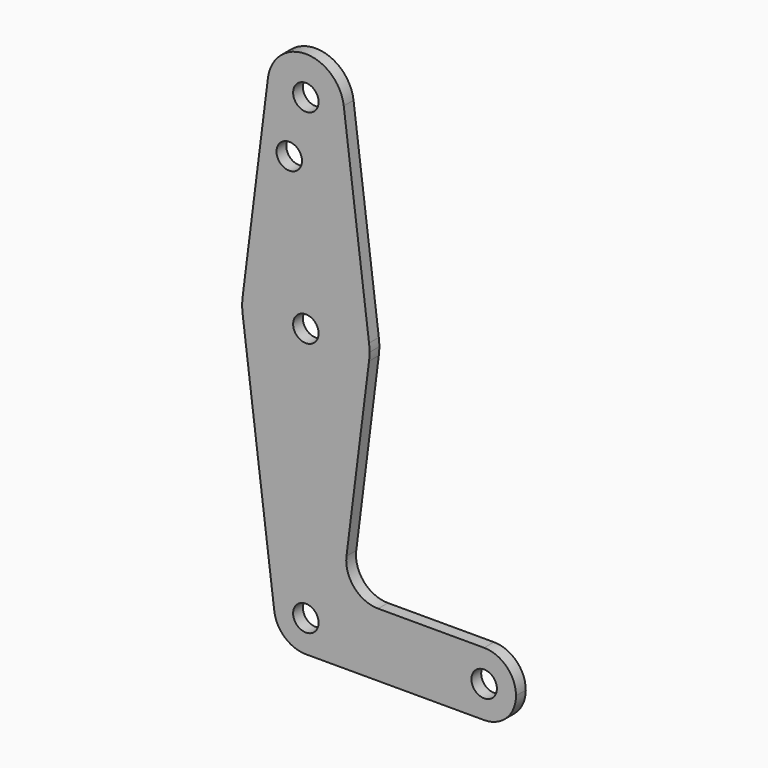
from build123d import *

# Parameters (mm, degrees)
F0_R     = 3.175
F1_DEPTH = 3.048


with BuildPart() as f1:
    # F0 (on Front) → F1 (new body)
    with BuildSketch(Plane.XZ):
        with BuildLine():
            ThreePointArc((-23.5077682883, -57.6858783245), (-17.8951082126, -55.3610384002), (-15.5702682883, -49.7483783245))
            ThreePointArc((-15.5702682883, -49.7483783245), (-24.0048376566, -41.8264575793), (-31.3830124251, -50.7405658245))
            ThreePointArc((-31.3830124251, -50.7405658245), (-28.7579310461, -55.7015033245), (-23.5077682883, -57.6858783245))
        make_face()
        with Locations((-23.5077682883, -49.7483783245)):
            Circle(F0_R, mode=Mode.SUBTRACT)
        with BuildLine():
            ThreePointArc((-31.3830124251, -50.7405658245), (-24.0048376566, -41.8264575793), (-15.5702682883, -49.7483783245))
            Line((-15.5702682883, -49.7483783245), (13.0047317117, -49.7483783245))
            ThreePointArc((13.0047317117, -49.7483783245), (15.3295716361, -44.1357182488), (20.9422317117, -41.8108783245))
            Line((20.9422317117, -41.8108783245), (-5.4928098148, -41.8108783245))
            ThreePointArc((-5.4928098148, -41.8108783245), (-11.4554598148, -39.1192413428), (-13.3806543422, -32.8669033245))
            Line((-13.3806543422, -32.8669033245), (-7.7572800146, 11.7672466755))
            ThreePointArc((-7.7572800146, 11.7672466755), (-23.5077682883, -2.1233783245), (-39.2582565619, 11.7672466755))
            Line((-39.2582565619, 11.7672466755), (-31.3830124251, -50.7405658245))
        make_face()
        with BuildLine():
            Line((13.0047317117, -49.7483783245), (-15.5702682883, -49.7483783245))
            ThreePointArc((-15.5702682883, -49.7483783245), (-17.8951082126, -55.3610384002), (-23.5077682883, -57.6858783245))
            Line((-23.5077682883, -57.6858783245), (20.9422317117, -57.6858783245))
            ThreePointArc((20.9422317117, -57.6858783245), (15.3295716361, -55.3610384002), (13.0047317117, -49.7483783245))
        make_face()
        with BuildLine():
            ThreePointArc((20.9422317117, -41.8108783245), (15.3295716361, -44.1357182488), (13.0047317117, -49.7483783245))
            ThreePointArc((13.0047317117, -49.7483783245), (15.3295716361, -55.3610384002), (20.9422317117, -57.6858783245))
            ThreePointArc((20.9422317117, -57.6858783245), (26.5548917874, -55.3610384002), (28.8797317117, -49.7483783245))
            ThreePointArc((28.8797317117, -49.7483783245), (26.5548917874, -44.1357182488), (20.9422317117, -41.8108783245))
        make_face()
        with BuildLine():
            ThreePointArc((24.1172317117, -49.7483783245), (20.9422317117, -52.9233783245), (17.7672317117, -49.7483783245))
            ThreePointArc((17.7672317117, -49.7483783245), (20.9422317117, -46.5733783245), (24.1172317117, -49.7483783245))
        make_face(mode=Mode.SUBTRACT)
        with BuildLine():
            ThreePointArc((-39.2582565619, 15.7359966755), (-39.3827682883, 13.7516216755), (-39.2582565619, 11.7672466755))
            ThreePointArc((-39.2582565619, 11.7672466755), (-23.5077682883, -2.1233783245), (-7.7572800146, 11.7672466755))
            ThreePointArc((-7.7572800146, 11.7672466755), (-7.6639267979, 12.7574829389), (-7.6327682883, 13.7516216755))
            ThreePointArc((-7.6327682883, 13.7516216755), (-7.6639267979, 14.7457604121), (-7.7572800146, 15.7359966755))
            ThreePointArc((-7.7572800146, 15.7359966755), (-23.5077682883, 29.6266216755), (-39.2582565619, 15.7359966755))
        make_face()
        with Locations((-23.5077682883, 13.7516216755)):
            Circle(F0_R, mode=Mode.SUBTRACT)
        with BuildLine():
            Line((-32.9580612525, 65.7422466755), (-39.2582565619, 15.7359966755))
            ThreePointArc((-39.2582565619, 15.7359966755), (-23.5077682883, 29.6266216755), (-7.7572800146, 15.7359966755))
            Line((-7.7572800146, 15.7359966755), (-14.057475324, 65.7422466755))
            ThreePointArc((-14.057475324, 65.7422466755), (-14.001463394, 65.1481049175), (-13.9827682883, 64.5516216755))
            ThreePointArc((-13.9827682883, 64.5516216755), (-24.1042515302, 55.0453167813), (-32.9580612525, 65.7422466755))
        make_face()
        with Locations((-27.6490487158, 50.2768216755)):
            Circle(F0_R, mode=Mode.SUBTRACT)
        with BuildLine():
            ThreePointArc((-14.057475324, 65.7422466755), (-23.5077682883, 74.0766216755), (-32.9580612525, 65.7422466755))
            ThreePointArc((-32.9580612525, 65.7422466755), (-24.1042515302, 55.0453167813), (-13.9827682883, 64.5516216755))
            ThreePointArc((-13.9827682883, 64.5516216755), (-14.001463394, 65.1481049175), (-14.057475324, 65.7422466755))
        make_face()
        with Locations((-23.5077682883, 64.5516216755)):
            Circle(F0_R, mode=Mode.SUBTRACT)
    extrude(amount=F1_DEPTH)


solid = f1.part
